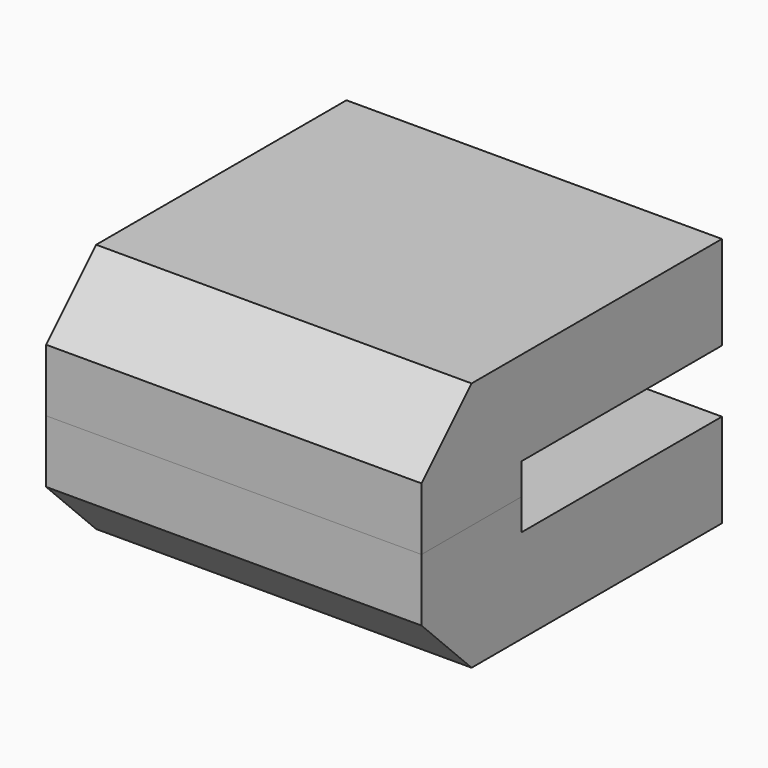
from build123d import *

# Parameters (mm, degrees)
F0_W     = 38.1
F0_H     = 38.1
F1_DEPTH = 9.525
F2_SIZE  = 6.35
F3_W     = 38.1
F3_H     = 12.7
F4_DEPTH = 3.175


with BuildPart() as f1:
    # F0 (on Top) → F1 (new body)
    with BuildSketch(Plane.XY):
        Rectangle(F0_W, F0_H)
    extrude(amount=F1_DEPTH)

    # F2
    f2_edges = [f1.edges().sort_by_distance(p)[0] for p in [
        (0, -19.05, 9.525),
    ]]
    chamfer(f2_edges, length=F2_SIZE)

    # F3 (on face) → F4 (join)
    with BuildSketch(Plane(origin=(0, 0, 0), x_dir=(1, 0, 0), z_dir=(0, 0, -1))):
        with Locations((0, 12.7)):
            Rectangle(F3_W, F3_H)
    extrude(amount=F4_DEPTH)


with BuildPart() as f5_1:
    # F5: instance of F1
    add(f1.part.mirror(Plane(origin=(0, -12.7, -3.175), x_dir=(1, 0, 0), z_dir=(0, 0, -1))))


solid = Compound([f1.part, f5_1.part])
